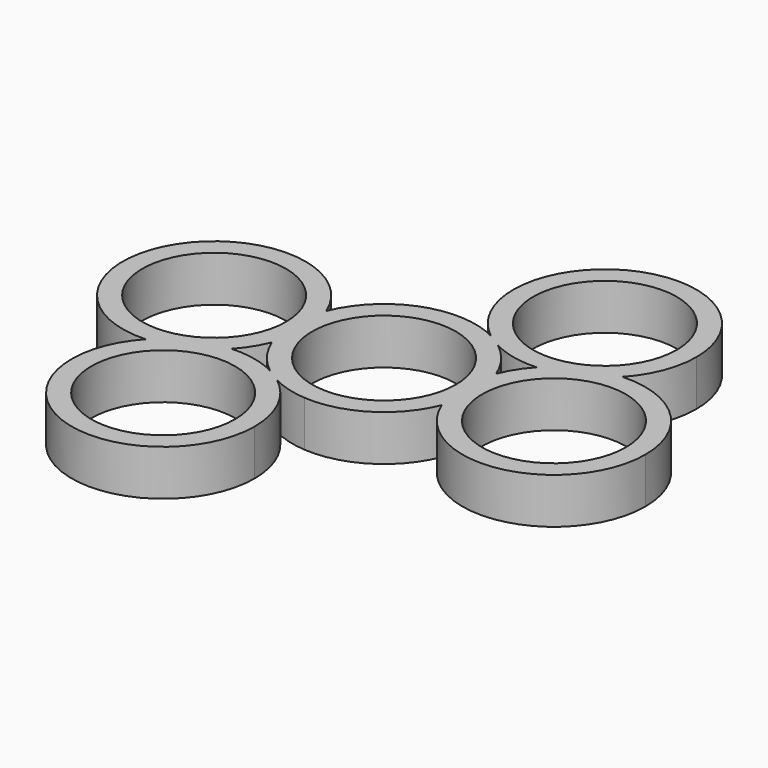
from build123d import *

# Parameters (mm, degrees)
F0_R     = 11
F1_DEPTH = 7


with BuildPart() as f1:
    # F0 (on Top) → F1 (new body)
    with BuildSketch(Plane.XY):
        with BuildLine():
            ThreePointArc((-13, 5.1961524227), (-37.7939098997, 7.5434534053), (-25.2656435191, -13.9807267536))
            ThreePointArc((-25.2656435191, -13.9807267536), (-20.9351614847, -10.8203368282), (-15.7343564809, -9.5192732464))
            ThreePointArc((-15.7343564809, -9.5192732464), (-14.1680565627, -7.4836564924), (-13, -5.1961524227))
            ThreePointArc((-13, -5.1961524227), (-14, 0), (-13, 5.1961524227))
        make_face()
        with Locations((-26, 0)):
            Circle(F0_R, mode=Mode.SUBTRACT)
        with BuildLine():
            ThreePointArc((-1, -13.9642400438), (7.4310053245, -11.8650815365), (13, -5.1961524227))
            ThreePointArc((13, -5.1961524227), (12, 0), (13, 5.1961524227))
            ThreePointArc((13, 5.1961524227), (11.1873096242, 8.4168939266), (8.5949880704, 11.0510714444))
            ThreePointArc((8.5949880704, 11.0510714444), (7.4675036591, 11.6990890659), (6.4050119296, 12.4489285556))
            ThreePointArc((6.4050119296, 12.4489285556), (3.7792317534, 13.4802599142), (1, 13.9642400438))
            ThreePointArc((1, 13.9642400438), (-7.4310053245, 11.8650815365), (-13, 5.1961524227))
            ThreePointArc((-13, 5.1961524227), (-12.2522729151, 2.6457513111), (-12, 0))
            ThreePointArc((-12, 0), (-12.2522729151, -2.6457513111), (-13, -5.1961524227))
            ThreePointArc((-13, -5.1961524227), (-11.1873096242, -8.4168939266), (-8.5949880704, -11.0510714444))
            ThreePointArc((-8.5949880704, -11.0510714444), (-7.4675036591, -11.6990890659), (-6.4050119296, -12.4489285556))
            ThreePointArc((-6.4050119296, -12.4489285556), (-3.7792317534, -13.4802599142), (-1, -13.9642400438))
        make_face()
        Circle(F0_R, mode=Mode.SUBTRACT)
        with BuildLine():
            ThreePointArc((-12, 0), (-12.2522729151, 2.6457513111), (-13, 5.1961524227))
            ThreePointArc((-13, 5.1961524227), (-14, 0), (-13, -5.1961524227))
            ThreePointArc((-13, -5.1961524227), (-12.2522729151, -2.6457513111), (-12, 0))
        make_face()
        with BuildLine():
            ThreePointArc((-15.7343564809, -9.5192732464), (-20.9351614847, -10.8203368282), (-25.2656435191, -13.9807267536))
            ThreePointArc((-25.2656435191, -13.9807267536), (-20.0648385153, -12.6796631718), (-15.7343564809, -9.5192732464))
        make_face()
        with BuildLine():
            ThreePointArc((-1, -23.5), (-2.4236365951, -17.3489770357), (-6.4050119296, -12.4489285556))
            ThreePointArc((-6.4050119296, -12.4489285556), (-7.5324963409, -11.8009109341), (-8.5949880704, -11.0510714444))
            ThreePointArc((-8.5949880704, -11.0510714444), (-12.0630483943, -9.8115261893), (-15.7343564809, -9.5192732464))
            ThreePointArc((-15.7343564809, -9.5192732464), (-20.0648385153, -12.6796631718), (-25.2656435191, -13.9807267536))
            ThreePointArc((-25.2656435191, -13.9807267536), (-20.1127776567, -36.5330159454), (-1, -23.5))
        make_face()
        with Locations((-15, -23.5)):
            Circle(F0_R, mode=Mode.SUBTRACT)
        with BuildLine():
            ThreePointArc((13, 5.1961524227), (12, 0), (13, -5.1961524227))
            ThreePointArc((13, -5.1961524227), (13.7477270849, -2.6457513111), (14, 0))
            ThreePointArc((14, 0), (13.7477270849, 2.6457513111), (13, 5.1961524227))
        make_face()
        with BuildLine():
            ThreePointArc((13, -5.1961524227), (28.6457513111, -13.7477270849), (40, 0))
            ThreePointArc((40, 0), (35.6363636624, 10.1558109162), (25.2656435191, 13.9807267536))
            ThreePointArc((25.2656435191, 13.9807267536), (20.9351614847, 10.8203368282), (15.7343564809, 9.5192732464))
            ThreePointArc((15.7343564809, 9.5192732464), (14.1680565627, 7.4836564924), (13, 5.1961524227))
            ThreePointArc((13, 5.1961524227), (13.7477270849, 2.6457513111), (14, 0))
            ThreePointArc((14, 0), (13.7477270849, -2.6457513111), (13, -5.1961524227))
        make_face()
        with Locations((26, 0)):
            Circle(F0_R, mode=Mode.SUBTRACT)
        with BuildLine():
            ThreePointArc((15.7343564809, 9.5192732464), (20.0648385153, 12.6796631718), (25.2656435191, 13.9807267536))
            ThreePointArc((25.2656435191, 13.9807267536), (28.0330159454, 18.3872223433), (29, 23.5))
            ThreePointArc((29, 23.5), (15, 37.5), (1, 23.5))
            ThreePointArc((1, 23.5), (2.4236365951, 17.3489770357), (6.4050119296, 12.4489285556))
            ThreePointArc((6.4050119296, 12.4489285556), (7.5324963409, 11.8009109341), (8.5949880704, 11.0510714444))
            ThreePointArc((8.5949880704, 11.0510714444), (12.0630483943, 9.8115261893), (15.7343564809, 9.5192732464))
        make_face()
        with Locations((15, 23.5)):
            Circle(F0_R, mode=Mode.SUBTRACT)
        with BuildLine():
            ThreePointArc((15.7343564809, 9.5192732464), (20.9351614847, 10.8203368282), (25.2656435191, 13.9807267536))
            ThreePointArc((25.2656435191, 13.9807267536), (20.0648385153, 12.6796631718), (15.7343564809, 9.5192732464))
        make_face()
        with BuildLine():
            ThreePointArc((-8.5949880704, -11.0510714444), (-7.5324963409, -11.8009109341), (-6.4050119296, -12.4489285556))
            ThreePointArc((-6.4050119296, -12.4489285556), (-7.4675036591, -11.6990890659), (-8.5949880704, -11.0510714444))
        make_face()
        with BuildLine():
            ThreePointArc((6.4050119296, 12.4489285556), (7.4675036591, 11.6990890659), (8.5949880704, 11.0510714444))
            ThreePointArc((8.5949880704, 11.0510714444), (7.5324963409, 11.8009109341), (6.4050119296, 12.4489285556))
        make_face()
    extrude(amount=F1_DEPTH)


solid = f1.part
